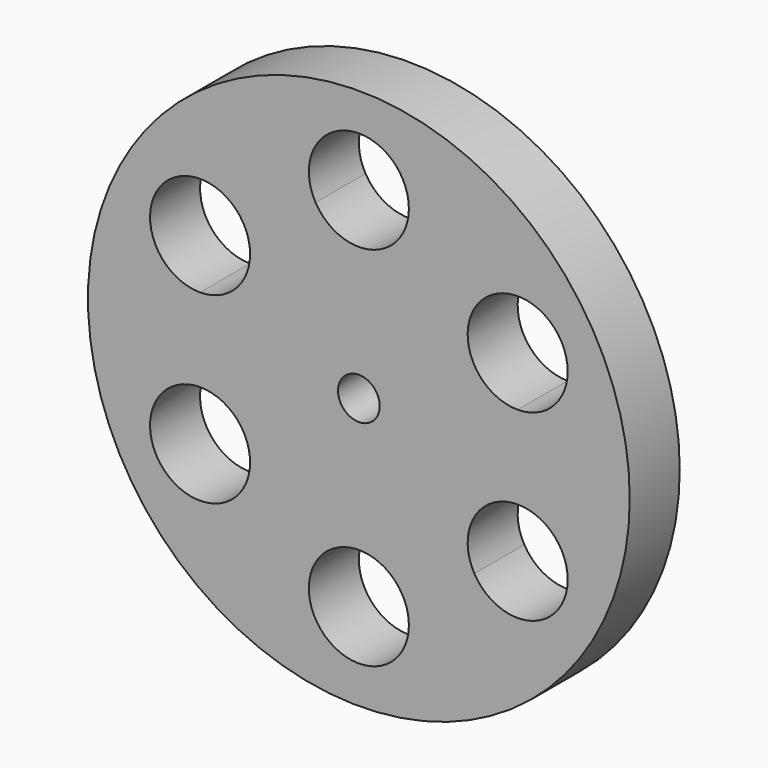
from build123d import *

# Parameters (mm, degrees)
F0_R     = 65
F0_R_2   = 5
F1_DEPTH = 7.5


with BuildPart() as f1:
    # F0 (on Front) → F1 (new body, symmetric)
    with BuildSketch(Plane.XZ):
        Circle(F0_R)
        with BuildLine():
            ThreePointArc((12, 44), (11.59111, 40.894171), (10.392305, 38))
            Line((10.392305, 38), (27.712813, 28))
            ThreePointArc((27.712813, 28), (41.210946, 33.59111), (50.105118, 22))
            ThreePointArc((50.105118, 22), (46.590399, 13.514719), (38.105118, 10))
            Line((38.105118, 10), (38.105118, -10))
            ThreePointArc((38.105118, -10), (46.590399, -13.514719), (50.105118, -22))
            ThreePointArc((50.105118, -22), (41.210946, -33.59111), (27.712813, -28))
            Line((27.712813, -28), (10.392305, -38))
            ThreePointArc((10.392305, -38), (11.59111, -40.894171), (12, -44))
            ThreePointArc((12, -44), (-3.105829, -55.59111), (-10.392305, -38))
            Line((-10.392305, -38), (-27.712813, -28))
            ThreePointArc((-27.712813, -28), (-48.497423, -28), (-38.105118, -10))
            Line((-38.105118, -10), (-38.105118, 10))
            ThreePointArc((-38.105118, 10), (-48.497423, 28), (-27.712813, 28))
            Line((-27.712813, 28), (-10.392305, 38))
            ThreePointArc((-10.392305, 38), (-3.105829, 55.59111), (12, 44))
        make_face(mode=Mode.SUBTRACT)
        with BuildLine():
            Line((27.712813, 28), (10.392305, 38))
            ThreePointArc((10.392305, 38), (0, 32), (-10.392305, 38))
            Line((-10.392305, 38), (-27.712813, 28))
            ThreePointArc((-27.712813, 28), (-26.514008, 25.105829), (-26.105118, 22))
            ThreePointArc((-26.105118, 22), (-29.619836, 13.514719), (-38.105118, 10))
            Line((-38.105118, 10), (-38.105118, -10))
            ThreePointArc((-38.105118, -10), (-29.619836, -13.514719), (-26.105118, -22))
            ThreePointArc((-26.105118, -22), (-26.514008, -25.105829), (-27.712813, -28))
            Line((-27.712813, -28), (-10.392305, -38))
            ThreePointArc((-10.392305, -38), (0, -32), (10.392305, -38))
            Line((10.392305, -38), (27.712813, -28))
            ThreePointArc((27.712813, -28), (27.712813, -16), (38.105118, -10))
            Line((38.105118, -10), (38.105118, 10))
            ThreePointArc((38.105118, 10), (27.712813, 16), (27.712813, 28))
        make_face()
        Circle(F0_R_2, mode=Mode.SUBTRACT)
    extrude(amount=F1_DEPTH, both=True)


solid = f1.part
